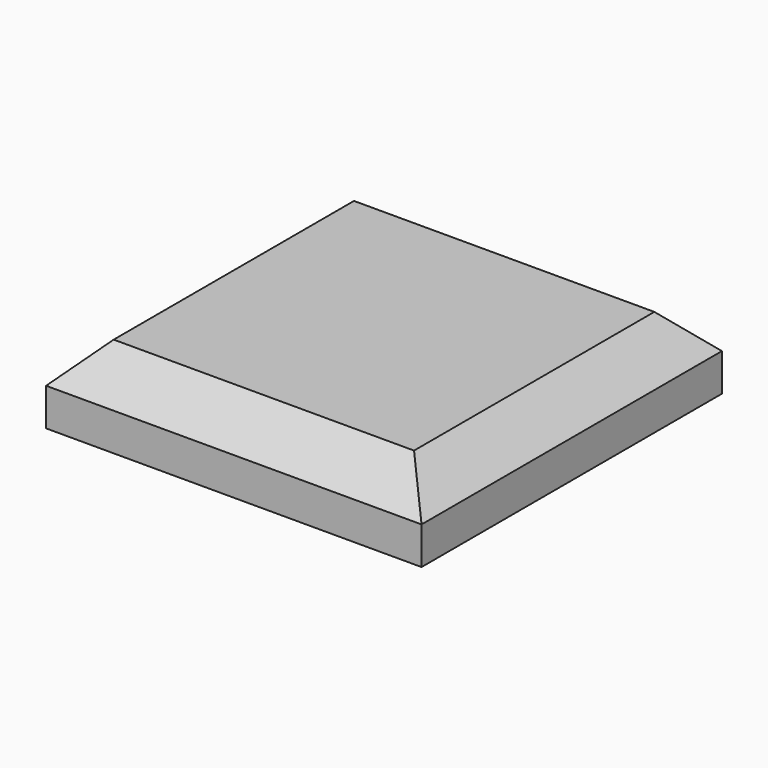
from build123d import *

# Parameters (mm, degrees)
F0_W     = 127
F0_H     = 127
F1_DEPTH = 25.4
F2_SIZE  = 12.7


with BuildPart() as f1:
    # F0 (on Top) → F1 (new body)
    with BuildSketch(Plane.XY):
        Rectangle(F0_W, F0_H)
    extrude(amount=F1_DEPTH)

    # F2
    f2_edges = [f1.edges().sort_by_distance(p)[0] for p in [
        (0, -63.5, 25.4),
        (-63.5, 0, 25.4),
        (63.5, 0, 25.4),
        (0, 63.5, 25.4),
    ]]
    chamfer(f2_edges, length=F2_SIZE)


solid = f1.part
